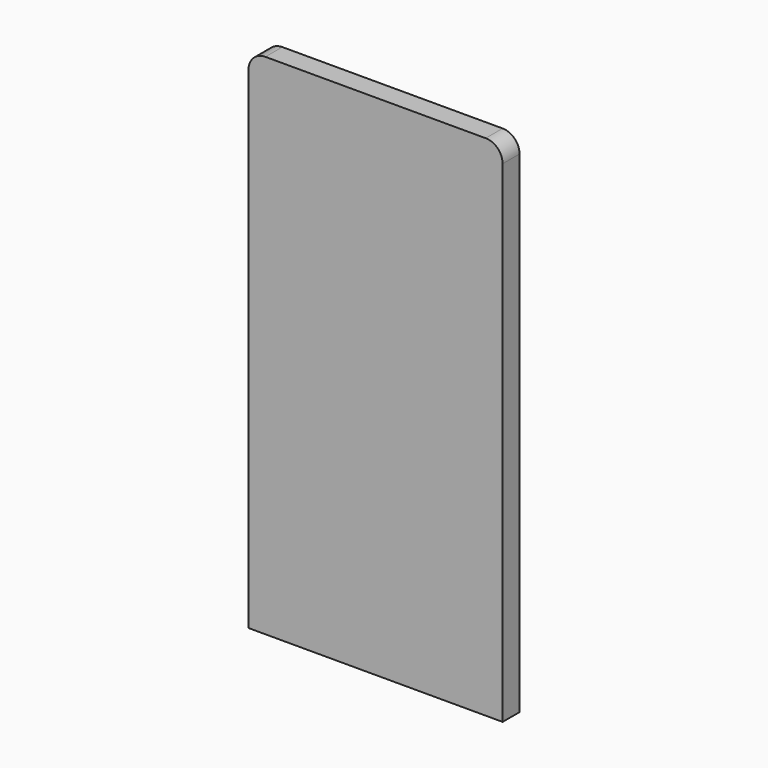
from build123d import *

# Parameters (mm, degrees)
F0_W     = 76.2
F0_H     = 152.4
F1_DEPTH = 6.35
F2_R     = 5.08
F3_R     = 5.08


with BuildPart() as f1:
    # F0 (on Front) → F1 (new body)
    with BuildSketch(Plane.XZ):
        Rectangle(F0_W, F0_H)
    extrude(amount=F1_DEPTH)

    # F2
    f2_edges = [f1.edges().sort_by_distance(p)[0] for p in [
        (-38.1, -3.175, 76.2),
    ]]
    fillet(f2_edges, radius=F2_R)

    # F3
    f3_edges = [f1.edges().sort_by_distance(p)[0] for p in [
        (38.1, -3.175, 76.2),
    ]]
    fillet(f3_edges, radius=F3_R)


solid = f1.part
